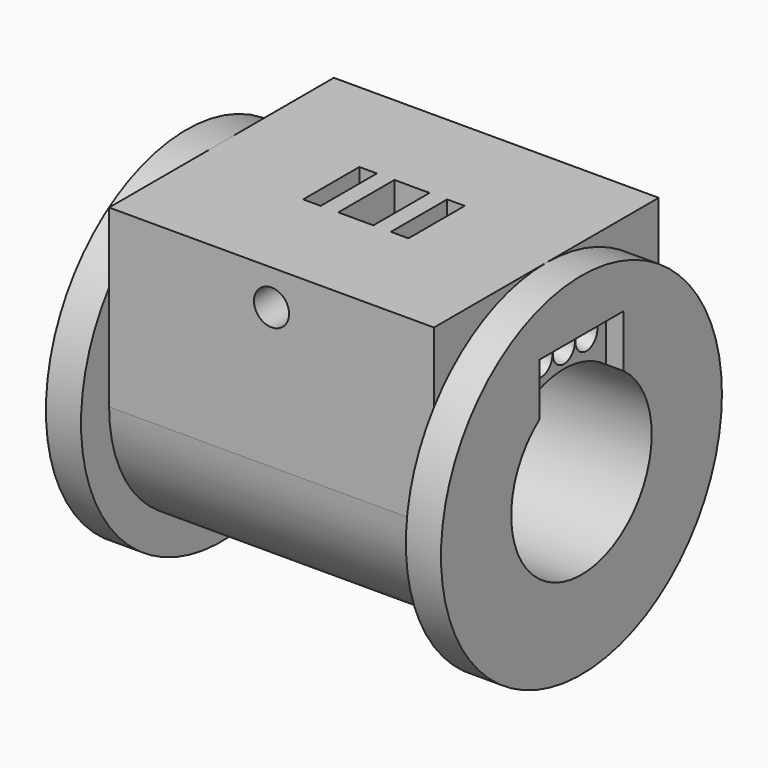
from build123d import *

# Parameters (mm, degrees)
F0_R      = 15.875
F1_DEPTH  = 35.71875
F2_W      = 29.36875
F2_H      = 3.175
F4_W      = 29.36875
F4_H      = 25.4
F5_DEPTH  = 15.875
F6_W      = 29.36875
F6_H      = 12.7
F7_DEPTH  = 15.875
F8_R      = 7.9375
F9_DEPTH  = 35.71975
F10_W     = 1.5875
F10_H     = 6.35
F10_W_2   = 3.175
F11_DEPTH = 6.35
F12_R     = 1.5875
F13_DEPTH = 12.7
F15_W     = 9.525
F15_H     = 6.0325
F16_DEPTH = 1.5875
F17_W     = 9.525
F17_H     = 6.0325
F18_DEPTH = 1.5875
F22_R     = 1.2446
F23_DEPTH = 13.97
F27_R     = 1.2446
F28_DEPTH = 13.97


with BuildPart() as f1:
    # F0 (on Right) → F1 (new body)
    with BuildSketch(Plane.YZ):
        Circle(F0_R)
    extrude(amount=F1_DEPTH)

    # F2 (on Front) → F3 (revolve, cut)
    with BuildSketch(Plane.XZ):
        with Locations((17.859375, 14.2875)):
            Rectangle(F2_W, F2_H)
    revolve(axis=Axis((19.161431, 0, 0), (1, 0, 0)), mode=Mode.SUBTRACT)

    # F4 (on Top) → F5 (join)
    with BuildSketch(Plane.XY):
        with Locations((17.859375, 0)):
            Rectangle(F4_W, F4_H)
    extrude(amount=F5_DEPTH)

    # F6 (on Front) → F7 (join)
    with BuildSketch(Plane.XZ):
        with Locations((17.859375, 0)):
            Rectangle(F6_W, F6_H)
    extrude(amount=-F7_DEPTH)

    # F8 (on face) → F9 (cut, through all)
    with BuildSketch(Plane.YZ.offset(35.71875)):
        Circle(F8_R)
    extrude(amount=-F9_DEPTH, mode=Mode.SUBTRACT)

    # F10 (on face) → F11 (cut)
    with BuildSketch(Plane.XY.offset(15.875)):
        with Locations((13.890625, 0)):
            Rectangle(F10_W, F10_H)
        with Locations((17.859375, 0)):
            Rectangle(F10_W_2, F10_H)
        with Locations((21.828125, 0)):
            Rectangle(F10_W, F10_H)
    extrude(amount=-F11_DEPTH, mode=Mode.SUBTRACT)

    # F12 (on face) → F13 (cut)
    with BuildSketch(Plane.XZ.offset(12.7)):
        with Locations((17.859375, 12.7)):
            Circle(F12_R)
    extrude(amount=-F13_DEPTH, mode=Mode.SUBTRACT)

    # F15 (on face) → F16 (cut)
    with BuildSketch(Plane.YZ.offset(35.71875)):
        with Locations((0, 8.09625)):
            Rectangle(F15_W, F15_H)
    extrude(amount=-F16_DEPTH, mode=Mode.SUBTRACT)

    # F17 (on face) → F18 (cut)
    with BuildSketch(Plane(origin=(0, 0, 0), x_dir=(0, -1, 0), z_dir=(-1, 0, 0))):
        with Locations((0, 8.09625)):
            Rectangle(F17_W, F17_H)
    extrude(amount=-F18_DEPTH, mode=Mode.SUBTRACT)

    # F22 (on face) → F23 (cut)
    with BuildSketch(Plane(origin=(32.393255, 0, -5.711805), x_dir=(0, 1, 0), z_dir=(0.984808, 0, -0.173648))):
        with Locations((2.54, 15.368172)):
            Circle(F22_R)
        with Locations((0, 15.368172)):
            Circle(F22_R)
        with Locations((-2.54, 15.368172)):
            Circle(F22_R)
    extrude(amount=-F23_DEPTH, mode=Mode.SUBTRACT)

    # F27 (on face) → F28 (cut)
    with BuildSketch(Plane(origin=(2.248443, 0, 0.396461), x_dir=(0, 1, 0), z_dir=(0.984808, 0, 0.173648))):
        with Locations((2.54, 9.165676)):
            Circle(F27_R)
        with Locations((-2.54, 9.165676)):
            Circle(F27_R)
        with Locations((0, 9.165676)):
            Circle(F27_R)
    extrude(amount=F28_DEPTH, mode=Mode.SUBTRACT)


solid = f1.part
